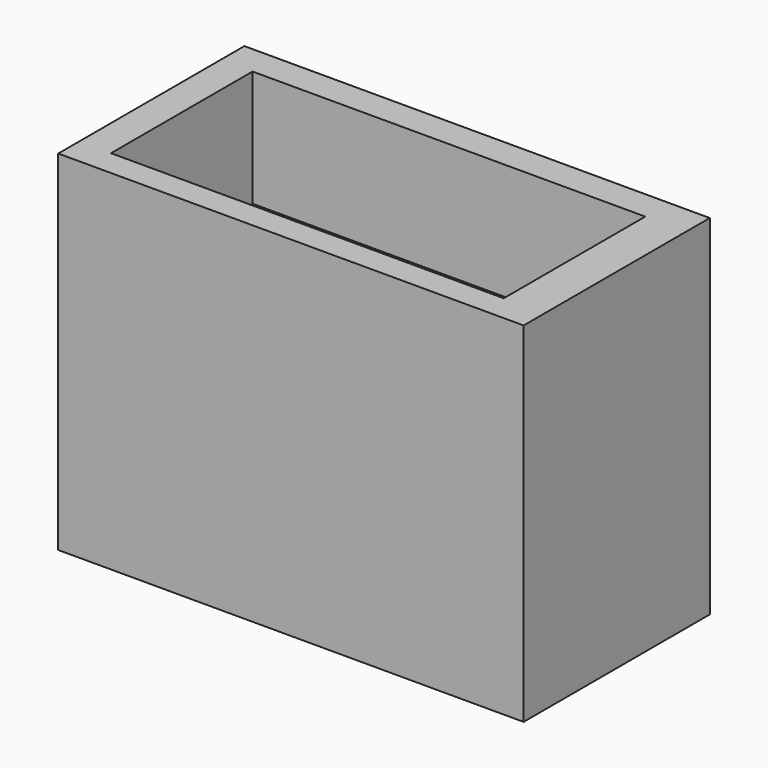
from build123d import *

# Parameters (mm, degrees)
F0_W     = 50.8
F0_H     = 25.4
F1_DEPTH = 25.4
F2_W     = 3.4749715865
F2_H     = 3.2341817119
F2_W_2   = 42.8683459759
F2_H_2   = 19.3071160465
F2_W_3   = 4.4566824377
F2_H_3   = 2.8587022416
F3_DEPTH = 12.7


with BuildPart() as f1:
    # F0 (on Top) → F1 (new body)
    with BuildSketch(Plane.XY):
        with Locations((6.0539245605, 0.1877397351)):
            Rectangle(F0_W, F0_H)
    extrude(amount=F1_DEPTH)

    # F2 (on face) → F3 (join)
    with BuildSketch(Plane.XY.offset(25.4)):
        with Locations((-17.6085896462, 11.2706488792)):
            Rectangle(F2_W, F2_H)
        with Locations((5.563069135, 11.2706488792)):
            Rectangle(F2_W_2, F2_H)
        with Locations((-17.6085896462, 0)):
            Rectangle(F2_W, F2_H_2)
        with Locations((29.2255833417, 11.2706488792)):
            Rectangle(F2_W_3, F2_H)
        with Locations((-17.6085896462, -11.0829091441)):
            Rectangle(F2_W, F2_H_3)
        with Locations((29.2255833417, 0)):
            Rectangle(F2_W_3, F2_H_2)
        with Locations((5.563069135, -11.0829091441)):
            Rectangle(F2_W_2, F2_H_3)
        with Locations((29.2255833417, -11.0829091441)):
            Rectangle(F2_W_3, F2_H_3)
    extrude(amount=F3_DEPTH)


solid = f1.part
